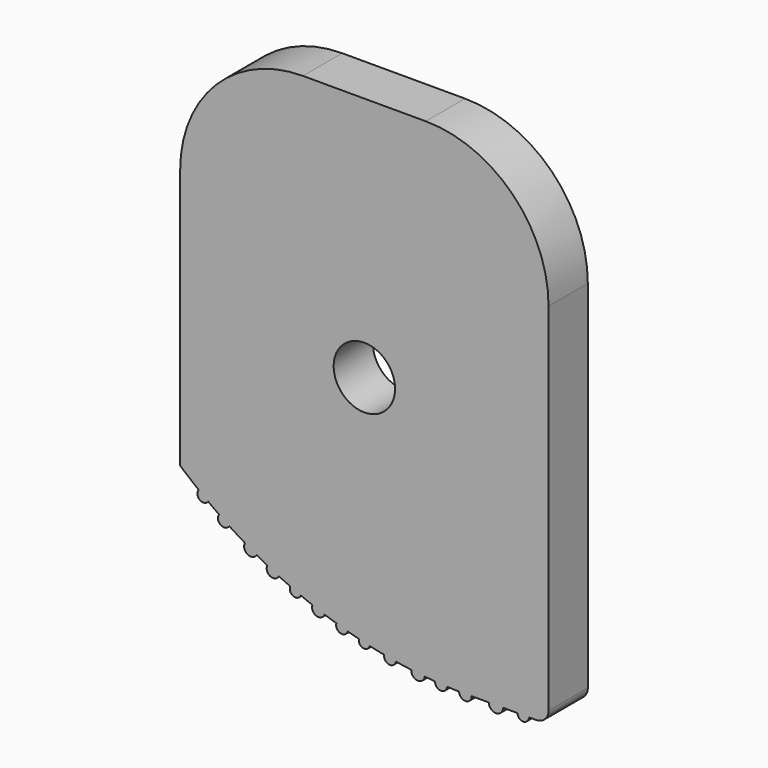
from build123d import *

# Parameters (mm, degrees)
F1_DEPTH = 5.08
F2_R     = 3.175
F3_DEPTH = 25.4
F4_R     = 12.7
F5_R     = 1.27
F6_R     = 0.624085
F6_R_2   = 0.644675
F6_R_3   = 0.690693
F6_R_4   = 0.661099
F6_R_5   = 0.595245
F6_R_6   = 0.666861
F6_R_7   = 0.612219
F6_R_8   = 0.570033
F6_R_9   = 0.614095
F6_R_10  = 0.689377
F6_R_11  = 0.615925
F6_R_12  = 0.655138
F6_R_13  = 0.735757
F6_R_14  = 0.585279
F7_DEPTH = 6.35


with BuildPart() as f1:
    # F0 (on Front) → F1 (new body)
    with BuildSketch(Plane.XZ):
        with BuildLine():
            Line((19.05, -25.4), (19.05, 25.4))
            Line((19.05, 25.4), (-19.05, 25.4))
            Line((-19.05, 25.4), (-19.05, -14.215613))
            ThreePointArc((-19.05, -14.215613), (-5.783979, -22.294952), (9.435144, -25.4))
            Line((9.435144, -25.4), (19.05, -25.4))
        make_face()
    extrude(amount=F1_DEPTH)

    # F2 (on face) → F3 (cut)
    with BuildSketch(Plane.XZ.offset(5.08)):
        Circle(F2_R)
    extrude(amount=-F3_DEPTH, mode=Mode.SUBTRACT)

    # F4
    f4_edges = [f1.edges().sort_by_distance(p)[0] for p in [
        (19.05, -2.54, 25.4),
        (-19.05, -2.54, 25.4),
    ]]
    fillet(f4_edges, radius=F4_R)

    # F5
    f5_edges = [f1.edges().sort_by_distance(p)[0] for p in [
        (19.05, -2.54, -25.4),
    ]]
    fillet(f5_edges, radius=F5_R)

    # F6 (on face) → F7 (join)
    with BuildSketch(Plane.XZ.offset(5.08)):
        with Locations((-16.64902, -16.17935)):
            Circle(F6_R)
        with Locations((-14.501234, -17.718923)):
            Circle(F6_R_2)
        with Locations((-11.7464, -19.433464)):
            Circle(F6_R_3)
        with Locations((-9.440057, -20.668933)):
            Circle(F6_R_4)
        with Locations((-7.113972, -21.748141)):
            Circle(F6_R_5)
        with Locations((-4.741597, -22.689453)):
            Circle(F6_R_6)
        with Locations((-2.305846, -23.499407)):
            Circle(F6_R_7)
        with Locations((0, -24.127949)):
            Circle(F6_R_8)
        with Locations((2.657019, -24.693049)):
            Circle(F6_R_9)
        with Locations((5.553329, -25.122012)):
            Circle(F6_R_10)
        with Locations((7.93359, -25.332349)):
            Circle(F6_R_11)
        with Locations((10.451948, -25.4)):
            Circle(F6_R_12)
        with Locations((13.607572, -25.4)):
            Circle(F6_R_13)
        with Locations((16.427536, -25.4)):
            Circle(F6_R_14)
    extrude(amount=-F7_DEPTH)


solid = f1.part
